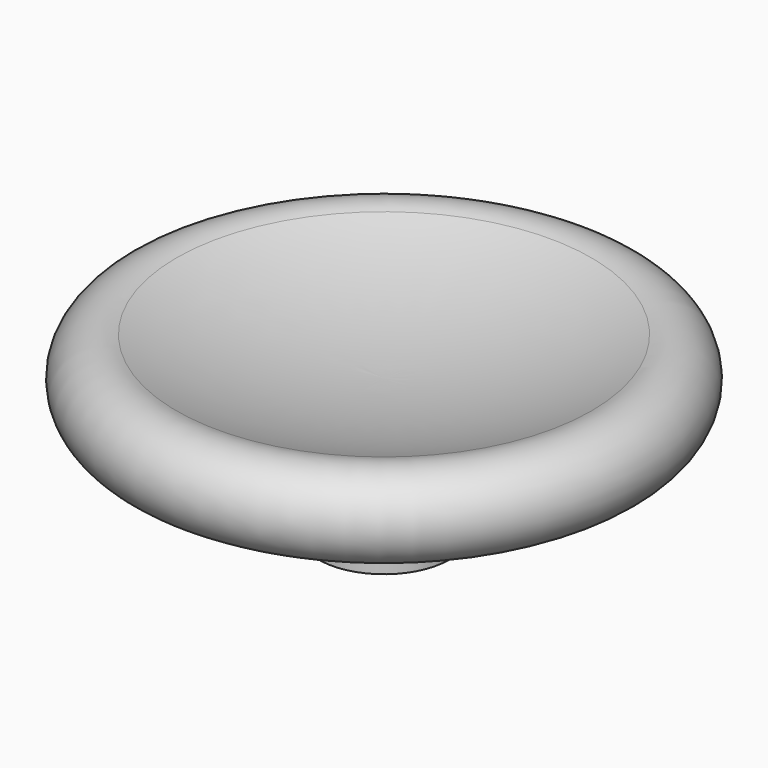
from build123d import *

# Parameters (mm, degrees)
F2_R     = 5.125
F3_DEPTH = 1.5
F4_R     = 2.35
F5_DEPTH = 3.5


with BuildPart() as f1:
    # F0 (on Front) → F1 (revolve)
    with BuildSketch(Plane.XZ):
        with BuildLine():
            ThreePointArc((0, 1.511369), (-3.807453, 1.861515), (-7.487184, 2.900208))
            ThreePointArc((-7.487184, 2.900208), (-9.5, 1.773576), (-8.025159, 0))
            Line((-8.025159, 0), (0, 0))
            Line((0, 0), (0, 1.511369))
        make_face()
        with BuildLine():
            ThreePointArc((0, 1.511369), (-3.807453, 1.861515), (-7.487184, 2.900208))
            ThreePointArc((-7.487184, 2.900208), (-9.5, 1.773576), (-8.025159, 0))
            Line((-8.025159, 0), (0, 0))
            Line((0, 0), (0, 1.511369))
        make_face()
    revolve(axis=Axis((0, 0, 0.755685), (0, 0, 1)))

    # F2 (on Top) → F3 (join)
    with BuildSketch(Plane.XY):
        Circle(F2_R)
    extrude(amount=-F3_DEPTH)

    # F4 (on Top) → F5 (join)
    with BuildSketch(Plane.XY):
        Circle(F4_R)
    extrude(amount=-F5_DEPTH)


solid = f1.part
